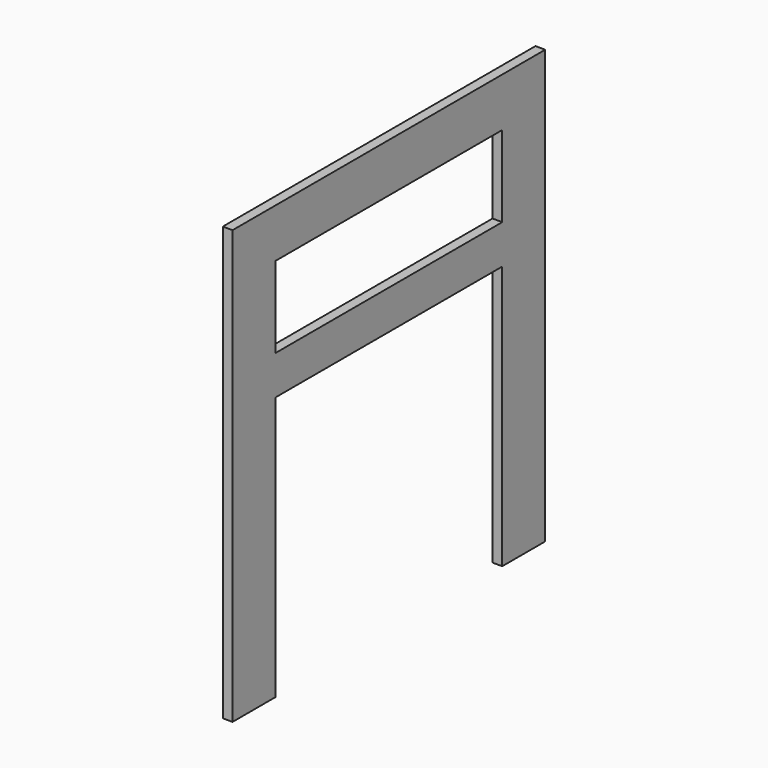
from build123d import *

# Parameters (mm, degrees)
SKETCH_W  = 580
SKETCH_H  = 166
PAD_DEPTH = 20


with BuildPart() as part:
    # Sketch → Pad (new body)
    with BuildSketch(Plane.YZ):
        Polygon((-290, 0), (-400, 0), (-400, 886), (400, 886), (400, 0), (290, 0), (290, 540), (-290, 540), align=None)
        with Locations((0, 703)):
            Rectangle(SKETCH_W, SKETCH_H, mode=Mode.SUBTRACT)
    extrude(amount=PAD_DEPTH)


solid = part.part
